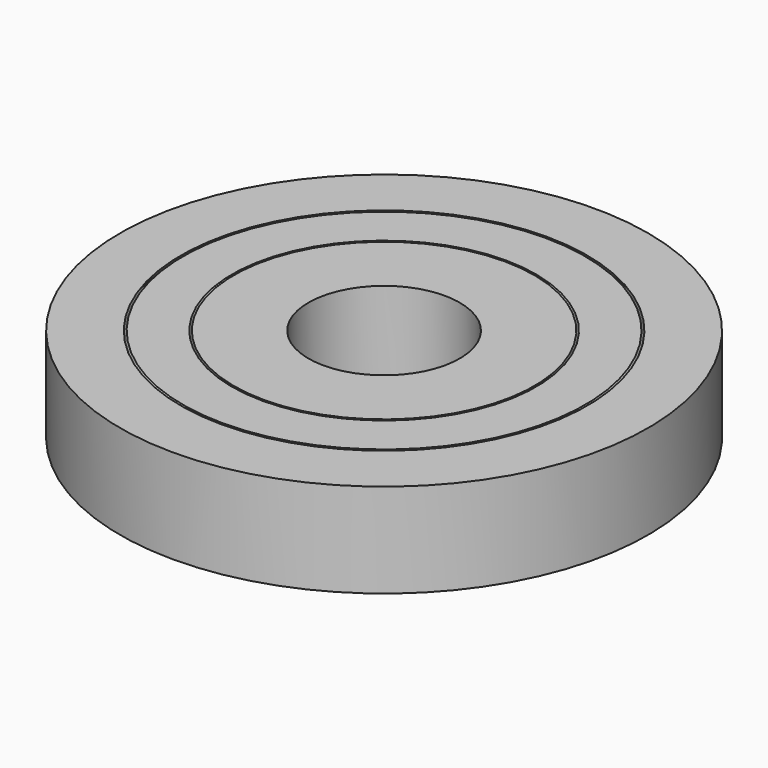
from build123d import *


with BuildPart() as f1:
    # F0 (on Right) → F1 (revolve)
    with BuildSketch(Plane.YZ):
        Polygon((-42.815655, 15.27123), (-42.815655, 0), (-33.855191, 0), (-36.632214, 3.185409), (-20.705163, 3.185409), (-24.359016, 0), (-20.705163, 0), (-12.273197, 0), (-12.273197, 15.27123), (-24.359016, 15.27123), (-20.705163, 11.336311), (-36.632214, 11.336311), (-32.978363, 15.27123), align=None)
        Polygon((-32.610254, 15.27123), (-32.81489, 15.050852), (-36.051148, 11.565648), (-21.240558, 11.565648), (-24.681455, 15.27123), align=None)
        Polygon((-33.605838, 0), (-24.681455, 0), (-21.240558, 2.999755), (-36.221009, 2.999755), align=None)
    revolve(axis=Axis((0, 0, 8.806721), (0, 0, 1)))


solid = f1.part
